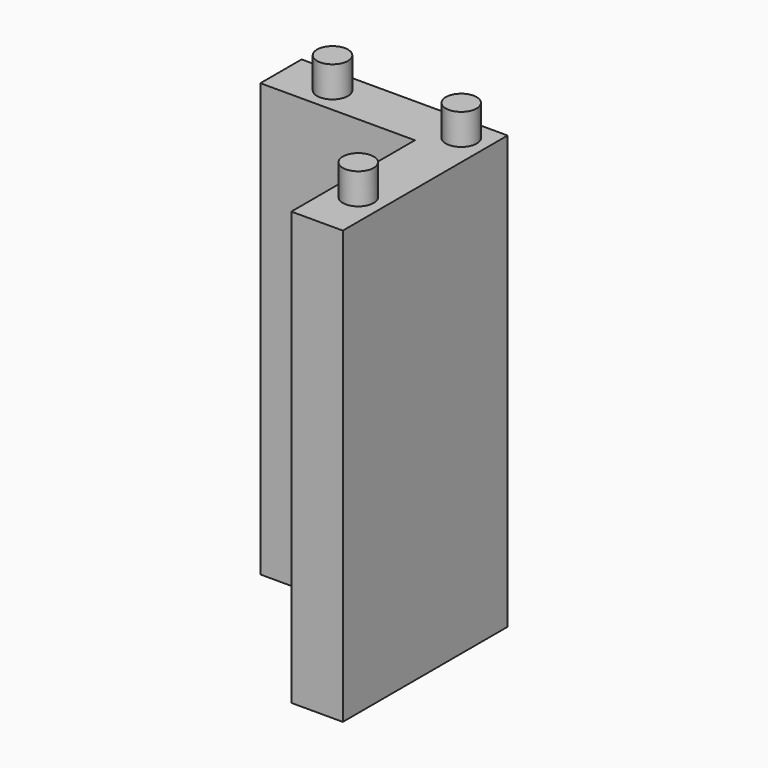
from build123d import *

# Parameters (mm, degrees)
PAD_DEPTH    = 42
SKETCH001_R  = 1.5
PAD001_DEPTH = 3
SKETCH002_R  = 1.5
POCKET_DEPTH = 15


with BuildPart() as part:
    # Sketch → Pad (new body)
    with BuildSketch(Plane.XY):
        Polygon((0, 0), (0, -15), (5, -15), (5, 5), (-15, 5), (-15, 0), align=None)
    extrude(amount=PAD_DEPTH)

    # Sketch001 (on Face8 of Pad) → Pad001 (join)
    with BuildSketch(Plane.XY.offset(42)):
        with Locations((-10, 2.5)):
            Circle(SKETCH001_R)
        with Locations((2.5, 2.5)):
            Circle(SKETCH001_R)
        with Locations((2.5, -10)):
            Circle(SKETCH001_R)
    extrude(amount=PAD001_DEPTH)

    # Sketch002 (on Face4 of Pad001) → Pocket (cut)
    with BuildSketch(Plane(origin=(0, 0, 0), x_dir=(1, 0, 0), z_dir=(0, 0, -1))):
        with Locations((2.5, -2.5)):
            Circle(SKETCH002_R)
        with Locations((2.5, 10)):
            Circle(SKETCH002_R)
        with Locations((-10, -2.5)):
            Circle(SKETCH002_R)
    extrude(amount=-POCKET_DEPTH, mode=Mode.SUBTRACT)


solid = part.part
